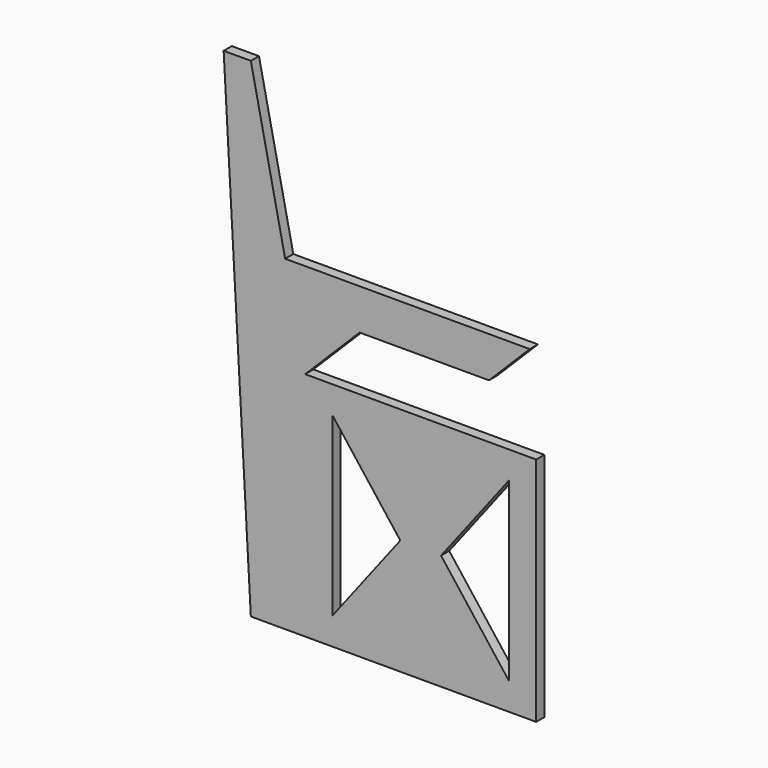
from build123d import *

# Parameters (mm, degrees)
F0_W     = 431.8
F0_H     = 431.8
F1_DEPTH = 19.05
F3_DEPTH = 19.051
F5_DEPTH = 19.05
F7_DEPTH = 19.051
F9_DEPTH = 19.05


with BuildPart() as f1:
    # F0 (on Front) → F1 (new body)
    with BuildSketch(Plane.XZ):
        with Locations((215.9, 215.9)):
            Rectangle(F0_W, F0_H)
    extrude(amount=F1_DEPTH)

    # F2 (on face) → F3 (cut, through all)
    with BuildSketch(Plane.XZ.offset(19.05)):
        Polygon((177.8, 215.9), (50.8, 381), (50.8, 50.8), align=None)
        Polygon((381, 50.8), (381, 381), (254, 215.9), align=None)
    extrude(amount=-F3_DEPTH, mode=Mode.SUBTRACT)

    # F4 (on face) → F5 (join, through all)
    with BuildSketch(Plane.XZ.offset(19.05)):
        Polygon((0, 0), (0, 431.8), (-101.6, 914.4), (-152.4, 914.4), (-152.4, 0), align=None)
    extrude(amount=-F5_DEPTH)

    # F6 (on face) → F7 (cut, through all)
    with BuildSketch(Plane.XZ.offset(19.05)):
        Polygon((-101.6, 0), (-152.4, 914.4), (-152.4, 0), align=None)
    extrude(amount=-F7_DEPTH, mode=Mode.SUBTRACT)

    # F8 (on face) → F9 (join)
    with BuildSketch(Plane.XZ.offset(19.05)):
        Polygon((419.768421, 609.6), (-37.431579, 609.6), (0, 431.8), (101.6, 533.4), (343.568421, 533.4), align=None)
    extrude(amount=-F9_DEPTH)


solid = f1.part
